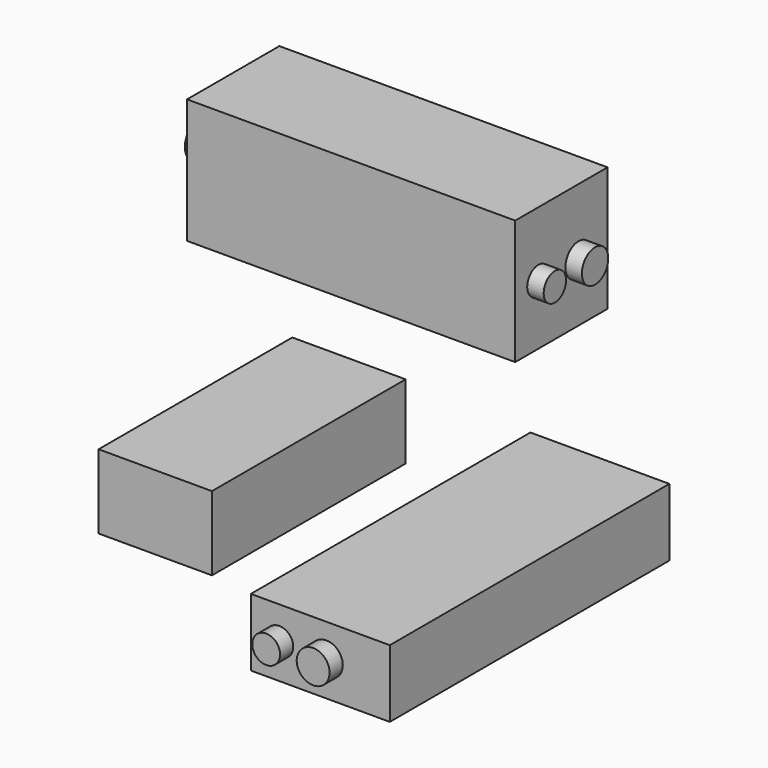
from build123d import *

# Parameters (mm, degrees)
F0_W      = 174.625
F0_H      = 114.3
F1_DEPTH  = 373.0752
F2_W      = 214.162111
F2_H      = 104.073152
F3_DEPTH  = 538.48
F4_R      = 21.390859
F4_R_2    = 25.328398
F5_DEPTH  = 25.4
F6_W      = 505.703956
F6_H      = 192.005247
F7_DEPTH  = 177.8
F8_R      = 24.789963
F8_R_2    = 28.424876
F9_DEPTH  = 25.4
F10_R     = 21.532551
F10_R_2   = 25.407624
F11_DEPTH = 25.4


with BuildPart() as f1:
    # F0 (on Front) → F1 (new body)
    with BuildSketch(Plane.XZ):
        with Locations((39.160911, -13.595684)):
            Rectangle(F0_W, F0_H)
    extrude(amount=F1_DEPTH)


with BuildPart() as f3:
    # F2 (on Front) → F3 (new body)
    with BuildSketch(Plane.XZ):
        with Locations((425.830125, -18.082999)):
            Rectangle(F2_W, F2_H)
    extrude(amount=F3_DEPTH)

    # F4 (on face) → F5 (join)
    with BuildSketch(Plane.XZ.offset(538.48)):
        with Locations((362.671256, -16.628383)):
            Circle(F4_R)
        with Locations((435.085922, -16.628383)):
            Circle(F4_R_2)
    extrude(amount=F5_DEPTH)


with BuildPart() as f7:
    # F6 (on Front) → F7 (new body)
    with BuildSketch(Plane.XZ):
        with Locations((184.748754, 336.347222)):
            Rectangle(F6_W, F6_H)
    extrude(amount=F7_DEPTH)

    # F8 (on face) → F9 (join)
    with BuildSketch(Plane(origin=(-68.103224, 0, 0), x_dir=(0, -1, 0), z_dir=(-1, 0, 0))):
        with Locations((35.56877, 353.223503)):
            Circle(F8_R)
        with Locations((121.888414, 348.204941)):
            Circle(F8_R_2)
    extrude(amount=F9_DEPTH)

    # F10 (on face) → F11 (join)
    with BuildSketch(Plane.YZ.offset(437.600732)):
        with Locations((-133.16673, 332.730651)):
            Circle(F10_R)
        with Locations((-55.770636, 329.45326)):
            Circle(F10_R_2)
    extrude(amount=F11_DEPTH)


solid = Compound([f1.part, f3.part, f7.part])
